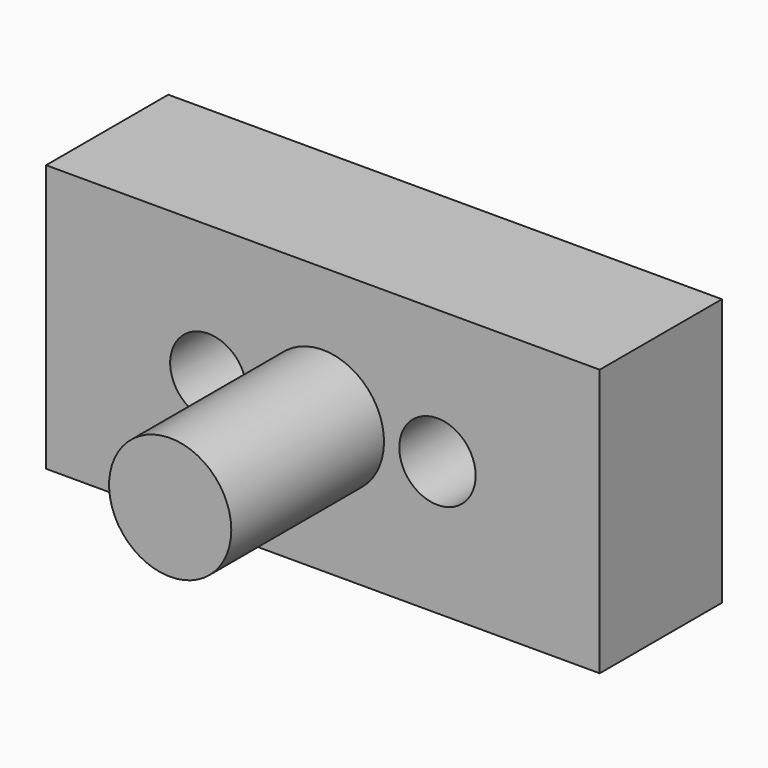
from build123d import *

# Parameters (mm, degrees)
F0_W     = 14.5
F0_H     = 7
F0_R     = 1
F1_DEPTH = 4
F2_R     = 1.6
F3_DEPTH = 5


with BuildPart() as f1:
    # F0 (on Front) → F1 (new body)
    with BuildSketch(Plane.XZ):
        Rectangle(F0_W, F0_H)
        with Locations((-3, 0)):
            Circle(F0_R, mode=Mode.SUBTRACT)
        with Locations((3, 0)):
            Circle(F0_R, mode=Mode.SUBTRACT)
    extrude(amount=F1_DEPTH)

    # F2 (on face) → F3 (join)
    with BuildSketch(Plane.XZ.offset(4)):
        Circle(F2_R)
    extrude(amount=F3_DEPTH)


solid = f1.part
